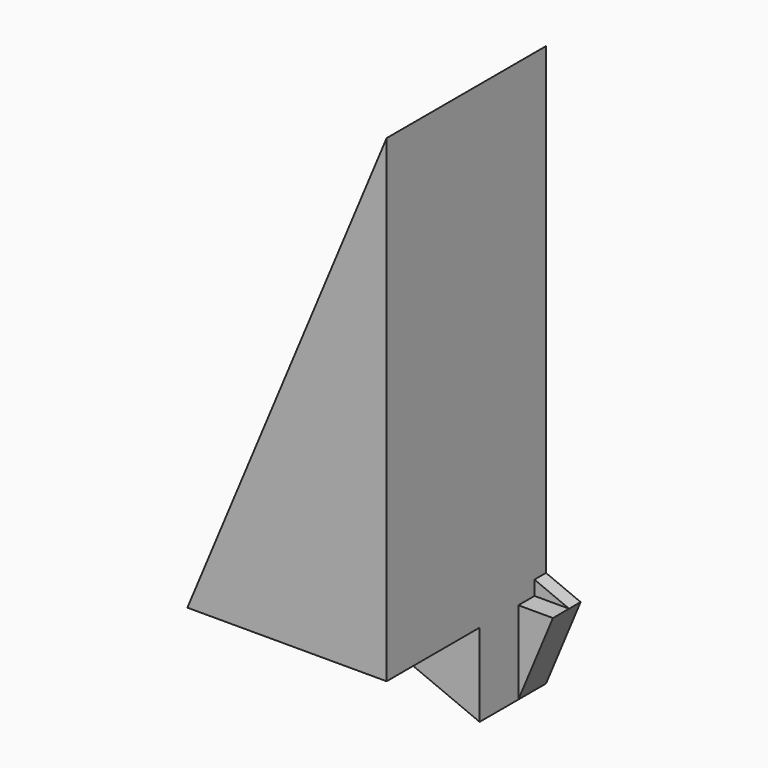
from build123d import *

# Parameters (mm, degrees)
F1_DEPTH = 127
F3_DEPTH = 304.8
F5_DEPTH = 731.52
F7_DEPTH = 1755.648


with BuildPart() as f1:
    # F0 (on Front) → F1 (new body)
    with BuildSketch(Plane.XZ):
        Polygon((0, 127), (0, 0), (304.8, 0), align=None)
    extrude(amount=F1_DEPTH)

    # F2 (on Front) → F3 (join)
    with BuildSketch(Plane.XZ):
        Polygon((304.8, 0), (0, 0), (0, -731.52), align=None)
    extrude(amount=F3_DEPTH)

    # F4 (on Front) → F5 (join)
    with BuildSketch(Plane.XZ):
        Polygon((-1755.648, 0), (0, -731.52), (0, 0), align=None)
    extrude(amount=F5_DEPTH)

    # F6 (on Front) → F7 (join)
    with BuildSketch(Plane.XZ):
        Polygon((-1755.648, 0), (0, 0), (0, 4213.5552), align=None)
    extrude(amount=F7_DEPTH)


solid = f1.part
